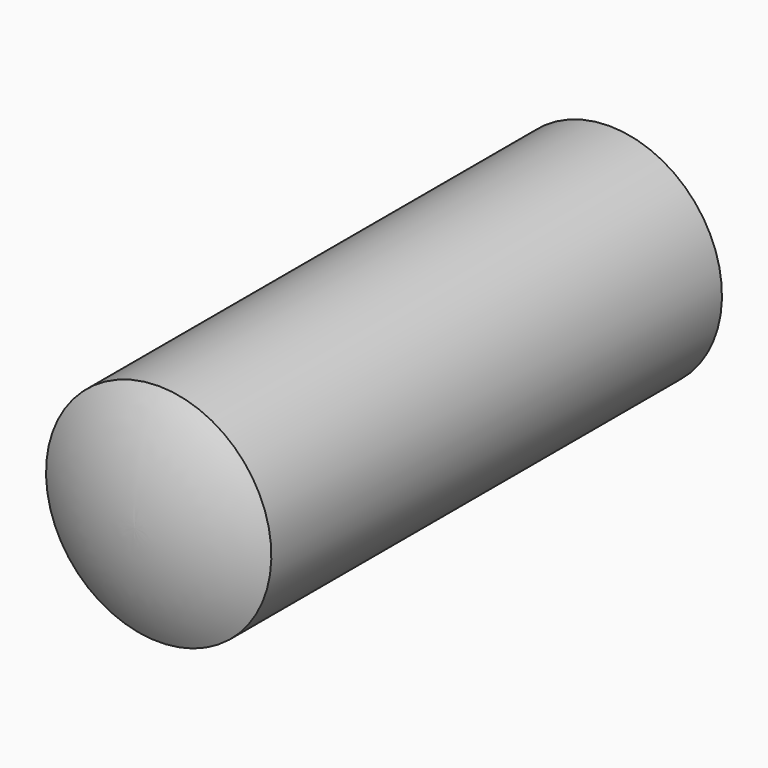
from build123d import *


with BuildPart() as part:
    # Sketch → Revolution (revolve)
    with BuildSketch(Plane.YZ):
        with BuildLine():
            ThreePointArc((10.535898, 0), (10.399602, 1.035276), (10, 2))
            Line((0, 2), (10, 2))
            ThreePointArc((0, 2), (-0.399602, 1.035276), (-0.535898, 0))
            Line((-0.535898, 0), (10.535898, 0))
        make_face()
    revolve(axis=Axis((0, 0, 0), (0, 1, 0)))


solid = part.part
